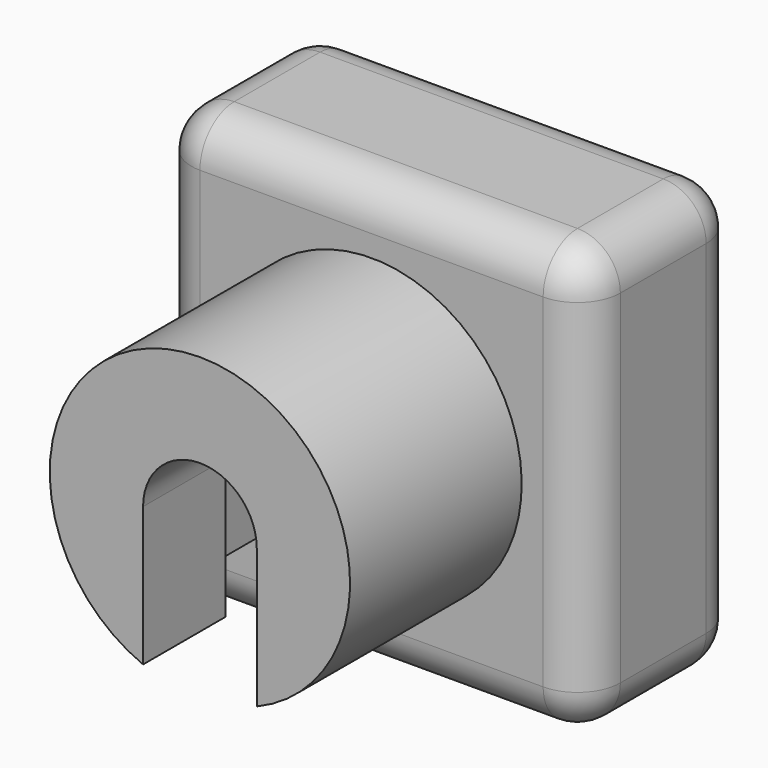
from build123d import *

# Parameters (mm, degrees)
SKETCH042_W     = 20
SKETCH042_H     = 20
PAD022_DEPTH    = 9
SKETCH043_R     = 7
PAD023_DEPTH    = 10
POCKET023_DEPTH = 8
SKETCH046_W     = 8.75
SKETCH046_H     = 5.2
POCKET024_DEPTH = 1
SKETCH047_R     = 3.7
POCKET025_DEPTH = 3
SKETCH048_R     = 1.675
POCKET026_DEPTH = 5
FILLET007_R     = 2
POCKET033_DEPTH = 5.2
SKETCH058_R     = 1.7
POCKET034_DEPTH = 10


with BuildPart() as part:
    # Sketch042 → Pad022 (new body)
    with BuildSketch(Plane.XZ):
        with Locations((-19.773271, -18.660706)):
            Rectangle(SKETCH042_W, SKETCH042_H)
    extrude(amount=PAD022_DEPTH)

    # Sketch043 (on Face6 of Pad022) → Pad023 (join)
    with BuildSketch(Plane.XZ.offset(9)):
        with Locations((-19.773271, -18.660706)):
            Circle(SKETCH043_R)
    extrude(amount=PAD023_DEPTH)

    # Sketch044 (on Face8 of Pad023) → Pocket023 (cut)
    with BuildSketch(Plane.XZ.offset(19)):
        with BuildLine():
            Line((-17.123271, -18.660706), (-17.123271, -31.745383))
            Line((-17.123271, -31.745383), (-22.423271, -31.745383))
            Line((-22.423271, -31.745383), (-22.423271, -18.660706))
            ThreePointArc((-17.123271, -18.660706), (-19.773271, -16.010706), (-22.423271, -18.660706))
        make_face()
    extrude(amount=-POCKET023_DEPTH, mode=Mode.SUBTRACT)

    # Sketch046 (on Face6 of Pocket023) → Pocket024 (cut)
    with BuildSketch(Plane(origin=(0, 0, -28.660706), x_dir=(1, 0, 0), z_dir=(0, 0, -1))):
        with Locations((-19.773271, 11.6)):
            Rectangle(SKETCH046_W, SKETCH046_H)
    extrude(amount=-POCKET024_DEPTH, mode=Mode.SUBTRACT)

    # Sketch047 (on Face4 of Pocket024) → Pocket025 (cut)
    with BuildSketch(Plane(origin=(0, 0, 0), x_dir=(1, 0, 0), z_dir=(0, 1, 0))):
        with Locations((-19.773271, 18.660706)):
            Circle(SKETCH047_R)
    extrude(amount=-POCKET025_DEPTH, mode=Mode.SUBTRACT)

    # Sketch048 (on Face11 of Pocket025) → Pocket026 (cut)
    with BuildSketch(Plane.XZ.offset(19)):
        with Locations((-19.773271, -18.660706)):
            Circle(SKETCH048_R)
    extrude(amount=-POCKET026_DEPTH, mode=Mode.SUBTRACT)

    # Fillet007
    fillet007_edges = [part.edges().sort_by_distance(p)[0] for p in [
        (-19.773271, 0, -8.660706),
        (-9.773271, 0, -18.660706),
        (-29.773271, 0, -18.660706),
        (-19.773271, 0, -28.660706),
        (-23.473271, 0, -18.660706),
        (-9.773271, -4.5, -28.660706),
        (-9.773271, -4.5, -8.660706),
        (-9.773271, -9, -18.660706),
        (-29.773271, -4.5, -28.660706),
        (-26.960771, -9, -28.660706),
        (-19.773271, -9, -28.660706),
        (-12.585771, -9, -28.660706),
        (-29.773271, -4.5, -8.660706),
        (-29.773271, -9, -18.660706),
        (-19.773271, -9, -8.660706),
    ]]
    fillet(fillet007_edges, radius=FILLET007_R)

    # Sketch057 (on Face32 of Fillet007) → Pocket033 (cut)
    with BuildSketch(Plane.XZ.offset(14.2)):
        with BuildLine():
            ThreePointArc((-15.373271, -18.660706), (-19.773271, -14.260706), (-24.173271, -18.660706))
            Line((-24.173271, -18.660706), (-24.173271, -31.35503))
            Line((-24.173271, -31.35503), (-15.373271, -31.35503))
            Line((-15.373271, -18.660706), (-15.373271, -31.35503))
        make_face()
    extrude(amount=-POCKET033_DEPTH, mode=Mode.SUBTRACT)

    # Sketch058 (on Face41 of Pocket033) → Pocket034 (cut)
    with BuildSketch(Plane(origin=(0, -3, 0), x_dir=(1, 0, 0), z_dir=(0, 1, 0))):
        with Locations((-19.773271, 18.660706)):
            Circle(SKETCH058_R)
    extrude(amount=-POCKET034_DEPTH, mode=Mode.SUBTRACT)


solid = part.part
